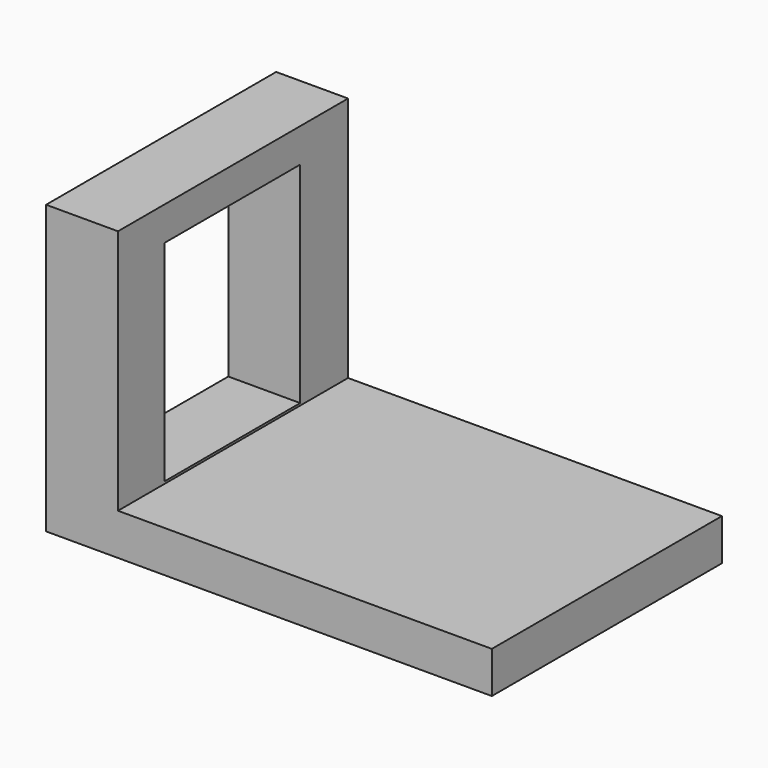
from build123d import *

# Parameters (mm, degrees)
F0_W     = 100
F0_H     = 100
F1_DEPTH = 25
F2_W     = 58.959882
F2_H     = 73
F3_DEPTH = 25
F4_W     = 100
F4_H     = 14.450165
F5_DEPTH = 130


with BuildPart() as f1:
    # F0 (on Right) → F1 (new body)
    with BuildSketch(Plane.YZ):
        with Locations((4.892698, 25.369738)):
            Rectangle(F0_W, F0_H)
    extrude(amount=F1_DEPTH)

    # F2 (on face) → F3 (cut)
    with BuildSketch(Plane.YZ.offset(25)):
        with Locations((4.610487, 27.091067)):
            Rectangle(F2_W, F2_H)
    extrude(amount=-F3_DEPTH, mode=Mode.SUBTRACT)

    # F4 (on face) → F5 (join)
    with BuildSketch(Plane.YZ.offset(25)):
        with Locations((4.892698, -17.405179)):
            Rectangle(F4_W, F4_H)
    extrude(amount=F5_DEPTH)


solid = f1.part
